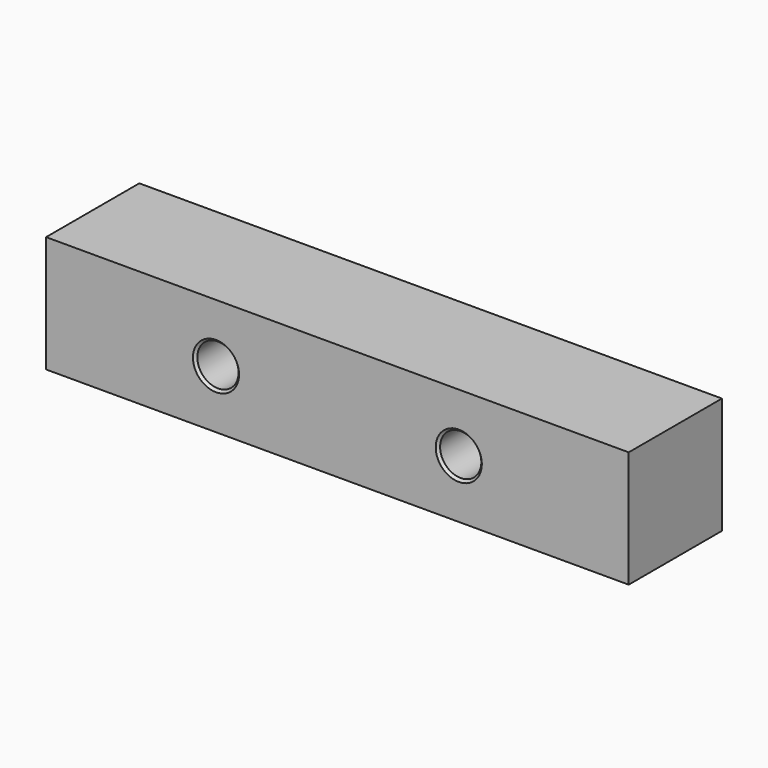
from build123d import *

# Parameters (mm, degrees)
F0_W     = 120
F0_H     = 24
F0_R     = 4.25
F1_DEPTH = 24
F2_SIZE  = 0.5


with BuildPart() as f1:
    # F0 (on Front) → F1 (new body)
    with BuildSketch(Plane.XZ):
        Rectangle(F0_W, F0_H)
        with Locations((-25, 0)):
            Circle(F0_R, mode=Mode.SUBTRACT)
        with Locations((25, 0)):
            Circle(F0_R, mode=Mode.SUBTRACT)
    extrude(amount=F1_DEPTH)

    # F2
    f2_edges = [f1.edges().sort_by_distance(p)[0] for p in [
        (-20.75, -12, 0),
        (-29.25, 0, 0),
        (-29.25, -24, 0),
        (29.25, -12, 0),
        (20.75, 0, 0),
        (20.75, -24, 0),
    ]]
    chamfer(f2_edges, length=F2_SIZE)


solid = f1.part
